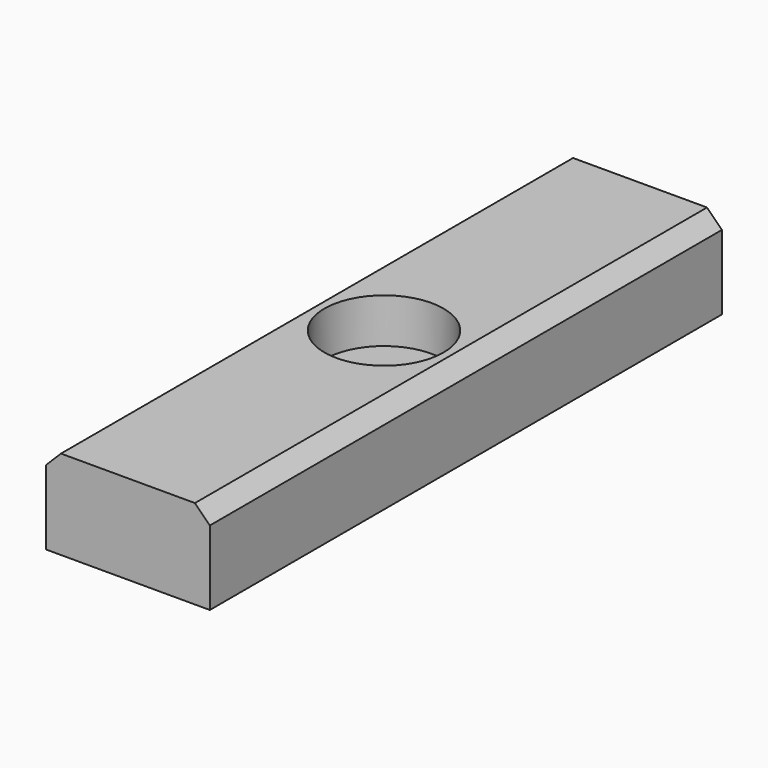
from build123d import *

# Parameters (mm, degrees)
F0_W     = 34.925
F0_H     = 19.05
F1_DEPTH = 136.525
F2_SIZE  = 3.175
F3_R     = 12.7
F4_DEPTH = 9.525
F5_R     = 3.96875
F6_DEPTH = 25.4


with BuildPart() as f1:
    # F0 (on Front) → F1 (new body)
    with BuildSketch(Plane.XZ):
        with Locations((17.4625, -9.525)):
            Rectangle(F0_W, F0_H)
    extrude(amount=F1_DEPTH)

    # F2
    f2_edges = [f1.edges().sort_by_distance(p)[0] for p in [
        (34.925, -68.2625, 0),
        (0, -68.2625, 0),
    ]]
    chamfer(f2_edges, length=F2_SIZE)

    # F3 (on face) → F4 (cut)
    with BuildSketch(Plane.XY):
        with Locations((17.4625, -68.2625)):
            Circle(F3_R)
    extrude(amount=-F4_DEPTH, mode=Mode.SUBTRACT)

    # F5 (on face) → F6 (cut)
    with BuildSketch(Plane.XY.offset(-9.525)):
        with Locations((17.4625, -68.2625)):
            Circle(F5_R)
    extrude(amount=-F6_DEPTH, mode=Mode.SUBTRACT)


solid = f1.part
